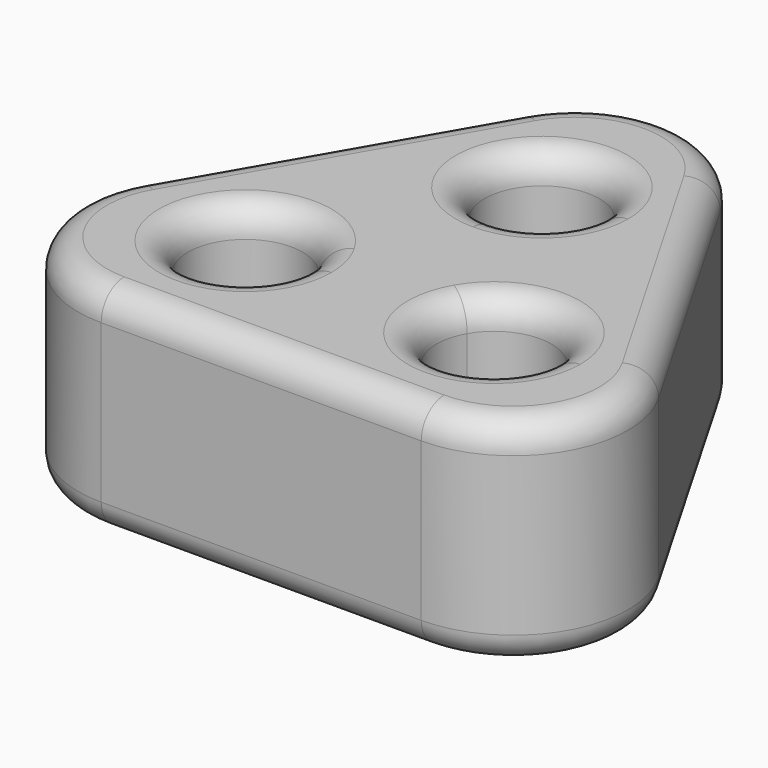
from build123d import *

# Parameters (mm, degrees)
F1_DEPTH = 15
F2_R     = 8
F3_R     = 2


with BuildPart() as f1:
    # F0 (on Top) → F1 (new body)
    with BuildSketch(Plane.XY):
        Polygon((13.953197, -23.159517), (-11.046803, -66.460787), (38.953197, -66.460787), align=None)
        with BuildLine():
            ThreePointArc((9.292943, -57.02703), (1.42924, -58.062307), (8.757045, -55.02703))
            ThreePointArc((8.757045, -55.02703), (9.156646, -55.991754), (9.292943, -57.02703))
        make_face(mode=Mode.SUBTRACT)
        with BuildLine():
            ThreePointArc((26.613451, -57.02703), (21.578175, -60.890734), (19.149349, -55.02703))
            ThreePointArc((19.149349, -55.02703), (23.648727, -53.163327), (26.613451, -57.02703))
        make_face(mode=Mode.SUBTRACT)
        with BuildLine():
            ThreePointArc((17.953197, -42.02703), (16.781624, -44.855457), (13.953197, -46.02703))
            ThreePointArc((13.953197, -46.02703), (11.12477, -39.198603), (17.953197, -42.02703))
        make_face(mode=Mode.SUBTRACT)
    extrude(amount=F1_DEPTH)

    # F2
    f2_edges = [f1.edges().sort_by_distance(p)[0] for p in [
        (38.953197, -66.460787, 7.5),
        (13.953197, -23.159517, 7.5),
        (-11.046803, -66.460787, 7.5),
    ]]
    fillet(f2_edges, radius=F2_R)

    # F3
    f3_edges = [f1.edges().sort_by_distance(p)[0] for p in [
        (1.453197, -44.810152, 15),
        (13.953197, -31.159517, 15),
        (-4.1186, -62.460787, 15),
        (26.453197, -44.810152, 15),
        (13.953197, -66.460787, 15),
        (32.024994, -62.460787, 15),
        (1.828841, -59.02703, 15),
        (26.077553, -59.02703, 15),
        (9.953197, -42.02703, 15),
        (1.453197, -44.810152, 0),
        (13.953197, -31.159517, 0),
        (-4.1186, -62.460787, 0),
        (26.453197, -44.810152, 0),
        (13.953197, -66.460787, 0),
        (32.024994, -62.460787, 0),
        (1.828841, -59.02703, 0),
        (26.077553, -59.02703, 0),
        (9.953197, -42.02703, 0),
    ]]
    fillet(f3_edges, radius=F3_R)


solid = f1.part
